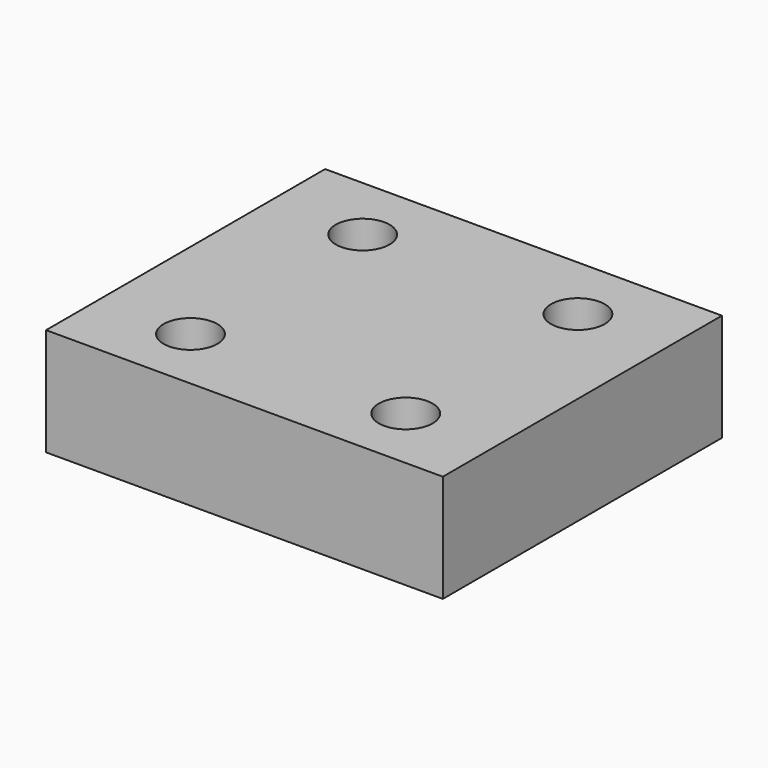
from build123d import *

# Parameters (mm, degrees)
F0_W     = 93.660824
F0_H     = 82.339369
F2_DEPTH = 25.4
F3_R     = 6.35
F1_DEPTH = 25.401


with BuildPart() as f2:
    # F0 (on Top) → F2 (new body)
    with BuildSketch(Plane.XY):
        with Locations((0.666063, 41.169684)):
            Rectangle(F0_W, F0_H)
    extrude(amount=F2_DEPTH)

    # F3 (on face) → F1 (cut, through all)
    with BuildSketch(Plane.XY.offset(25.4)):
        with Locations((26.378635, 66.237993)):
            Circle(F3_R)
        with Locations((26.378635, 15.437993)):
            Circle(F3_R)
        with Locations((-24.421365, 66.237993)):
            Circle(F3_R)
        with Locations((-24.421365, 15.437993)):
            Circle(F3_R)
    extrude(amount=-F1_DEPTH, mode=Mode.SUBTRACT)


solid = f2.part
